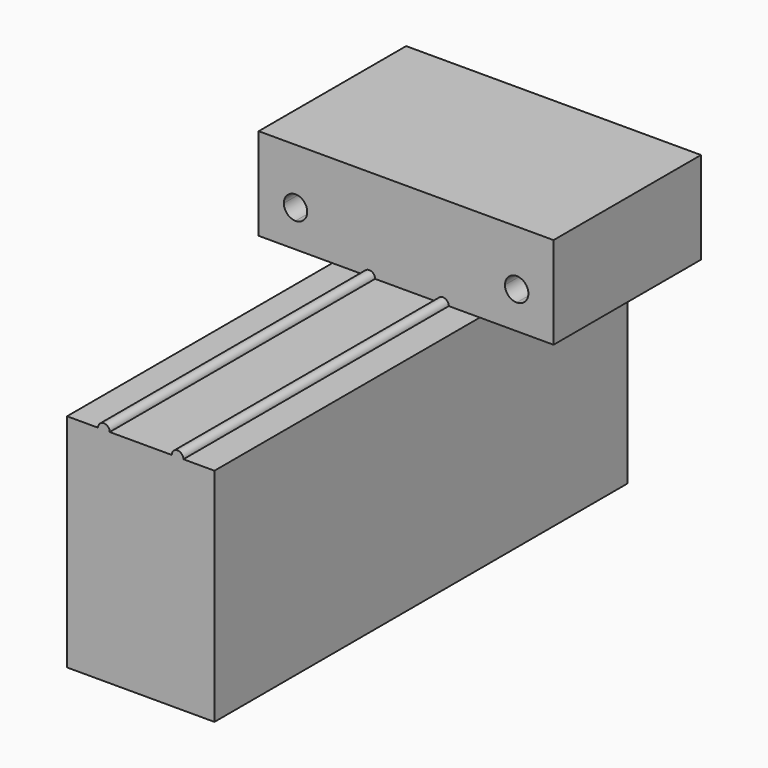
from build123d import *

# Parameters (mm, degrees)
F1_DEPTH = 90
F2_DEPTH = 50


with BuildPart() as f1:
    # F0 (on Front) → F1 (new body)
    with BuildSketch(Plane.XZ):
        with BuildLine():
            Line((20, -30), (20, 30))
            Line((20, 30), (11.5824, 30))
            ThreePointArc((11.5824, 30), (9.9949, 31.5875), (8.4074, 30))
            Line((8.4074, 30), (0, 30))
            Line((0, 30), (-8.4074, 30))
            ThreePointArc((-8.4074, 30), (-9.9949, 31.5875), (-11.5824, 30))
            Line((-11.5824, 30), (-20, 30))
            Line((-20, 30), (-20, -30))
            Line((-20, -30), (20, -30))
        make_face()
    extrude(amount=F1_DEPTH)

    # F0 (on Front) → F2 (join)
    with BuildSketch(Plane.XZ):
        with BuildLine():
            Line((20, -30), (20, 30))
            Line((20, 30), (11.5824, 30))
            ThreePointArc((11.5824, 30), (9.9949, 31.5875), (8.4074, 30))
            Line((8.4074, 30), (0, 30))
            Line((0, 30), (-8.4074, 30))
            ThreePointArc((-8.4074, 30), (-9.9949, 31.5875), (-11.5824, 30))
            Line((-11.5824, 30), (-20, 30))
            Line((-20, 30), (-20, -30))
            Line((-20, -30), (20, -30))
        make_face()
        with BuildLine():
            Line((11.5824, 30), (20, 30))
            Line((20, 30), (20, 40.000005))
            Line((20, 40.000005), (20, 55))
            Line((20, 55), (0, 55))
            Line((0, 55), (0, 30))
            Line((0, 30), (8.4074, 30))
            ThreePointArc((8.4074, 30), (9.9949, 31.5875), (11.5824, 30))
        make_face()
        with BuildLine():
            Line((20, 40.000005), (20, 30))
            Line((20, 30), (30, 30))
            Line((30, 30), (30, 36.825005))
            ThreePointArc((30, 36.825005), (27.754936, 37.754941), (26.825, 40.000005))
            Line((26.825, 40.000005), (20, 40.000005))
        make_face()
        with BuildLine():
            Line((20, 55), (20, 40.000005))
            Line((20, 40.000005), (26.825, 40.000005))
            ThreePointArc((26.825, 40.000005), (27.754936, 42.245069), (30, 43.175005))
            Line((30, 43.175005), (30, 55))
            Line((30, 55), (20, 55))
        make_face()
        with BuildLine():
            Line((30, 36.825005), (30, 30))
            Line((30, 30), (40, 30))
            Line((40, 30), (40, 40.000005))
            Line((40, 40.000005), (33.175, 40.000005))
            ThreePointArc((33.175, 40.000005), (32.245064, 37.754941), (30, 36.825005))
        make_face()
        with BuildLine():
            Line((-8.4074, 30), (0, 30))
            Line((0, 30), (0, 55))
            Line((0, 55), (-20, 55))
            Line((-20, 55), (-20, 40.000005))
            Line((-20, 40.000005), (-20, 30))
            Line((-20, 30), (-11.5824, 30))
            ThreePointArc((-11.5824, 30), (-9.9949, 31.5875), (-8.4074, 30))
        make_face()
        with BuildLine():
            Line((-30, 30), (-20, 30))
            Line((-20, 30), (-20, 40.000005))
            Line((-20, 40.000005), (-26.825, 40.000005))
            ThreePointArc((-26.825, 40.000005), (-27.754936, 37.754941), (-30, 36.825005))
            Line((-30, 36.825005), (-30, 30))
        make_face()
        with BuildLine():
            Line((40, 55), (30, 55))
            Line((30, 55), (30, 43.175005))
            ThreePointArc((30, 43.175005), (32.245064, 42.245069), (33.175, 40.000005))
            Line((33.175, 40.000005), (40, 40.000005))
            Line((40, 40.000005), (40, 55))
        make_face()
        with BuildLine():
            Line((-26.825, 40.000005), (-20, 40.000005))
            Line((-20, 40.000005), (-20, 55))
            Line((-20, 55), (-30, 55))
            Line((-30, 55), (-30, 43.175005))
            ThreePointArc((-30, 43.175005), (-27.754936, 42.245069), (-26.825, 40.000005))
        make_face()
        with BuildLine():
            Line((-40, 30), (-30, 30))
            Line((-30, 30), (-30, 36.825005))
            ThreePointArc((-30, 36.825005), (-32.245064, 37.754941), (-33.175, 40.000005))
            Line((-33.175, 40.000005), (-40, 40.000005))
            Line((-40, 40.000005), (-40, 30))
        make_face()
        with BuildLine():
            Line((-30, 43.175005), (-30, 55))
            Line((-30, 55), (-40, 55))
            Line((-40, 55), (-40, 40.000005))
            Line((-40, 40.000005), (-33.175, 40.000005))
            ThreePointArc((-33.175, 40.000005), (-32.245064, 42.245069), (-30, 43.175005))
        make_face()
    extrude(amount=-F2_DEPTH)


solid = f1.part
